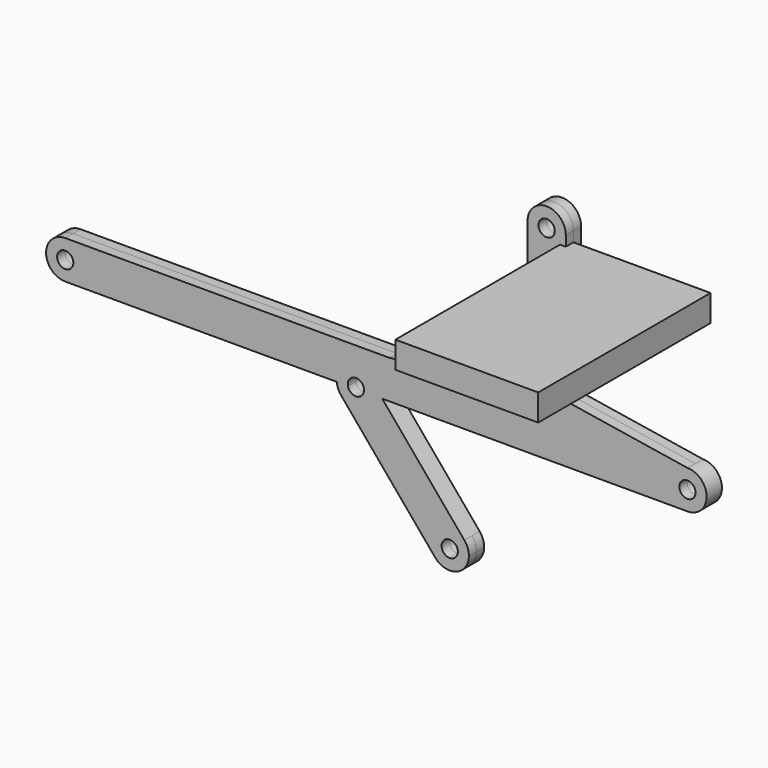
from build123d import *

# Parameters (mm, degrees)
F1_R     = 1.7
F2_DEPTH = 2
F3_W     = 29.8484290563
F3_H     = 5.5467073855
F4_DEPTH = 45


with BuildPart() as f2:
    # F1 (on Front) → F2 (new body, symmetric)
    with BuildSketch(Plane.XZ):
        with BuildLine():
            ThreePointArc((-41.5209898099, -12.0481280239), (-40.0251027901, -10.0182028071), (-38.1550220954, -11.7096733381))
            ThreePointArc((-38.1550220954, -11.7096733381), (-38.1635515644, -11.8797540328), (-38.189054381, -12.0481280239))
            Line((-38.189054381, -12.0481280239), (-35.8693667634, -12.0481280239))
            ThreePointArc((-35.8693667634, -12.0481280239), (-35.8586098715, -11.8790526048), (-35.8550220954, -11.7096733381))
            ThreePointArc((-35.8550220954, -11.7096733381), (-36.0962516123, -10.3415927648), (-36.790844323, -9.1385228994))
            ThreePointArc((-36.790844323, -9.1385228994), (-41.381040024, -8.0122053827), (-43.8406774275, -12.0481280239))
            Line((-43.8406774275, -12.0481280239), (-41.5209898099, -12.0481280239))
        make_face()
        with BuildLine():
            ThreePointArc((-38.189054381, -12.0481280239), (-39.8550220954, -13.4096733381), (-41.5209898099, -12.0481280239))
            Line((-41.5209898099, -12.0481280239), (-43.8406774275, -12.0481280239))
            ThreePointArc((-43.8406774275, -12.0481280239), (-43.5524900509, -13.2356912667), (-42.9191998679, -14.2808237769))
            ThreePointArc((-42.9191998679, -14.2808237769), (-38.6473330608, -15.5230035357), (-35.8693667634, -12.0481280239))
            Line((-35.8693667634, -12.0481280239), (-38.189054381, -12.0481280239))
        make_face()
        with BuildLine():
            Line((-100.580998737, -12.0481280239), (-43.8406774275, -12.0481280239))
            ThreePointArc((-43.8406774275, -12.0481280239), (-41.381040024, -8.0122053827), (-36.790844323, -9.1385228994))
            Line((-36.790844323, -9.1385228994), (-34.3493957361, -12.0481280239))
            Line((-34.3493957361, -12.0481280239), (29.419001263, -12.0481280239))
            ThreePointArc((29.419001263, -12.0481280239), (25.419001263, -8.0481280239), (29.419001263, -4.0481280239))
            Line((29.419001263, -4.0481280239), (-32.7925062924, -4.0481280239))
            Line((-32.7925062924, -4.0481280239), (-100.580998737, -4.0481280239))
            ThreePointArc((-100.580998737, -4.0481280239), (-97.7525716123, -5.2197008992), (-96.580998737, -8.0481280239))
            ThreePointArc((-96.580998737, -8.0481280239), (-97.7525716123, -10.8765551487), (-100.580998737, -12.0481280239))
        make_face()
        with BuildLine():
            ThreePointArc((-35.8550220954, -11.7096733381), (-35.8586098715, -11.8790526048), (-35.8693667634, -12.0481280239))
            Line((-35.8693667634, -12.0481280239), (-34.3493957361, -12.0481280239))
            Line((-34.3493957361, -12.0481280239), (-36.790844323, -9.1385228994))
            ThreePointArc((-36.790844323, -9.1385228994), (-36.0962516123, -10.3415927648), (-35.8550220954, -11.7096733381))
        make_face()
        with BuildLine():
            Line((-34.3493957361, -12.0481280239), (-35.8693667634, -12.0481280239))
            ThreePointArc((-35.8693667634, -12.0481280239), (-38.6473330608, -15.5230035357), (-42.9191998679, -14.2808237769))
            Line((-42.9191998679, -14.2808237769), (-23.3141777725, -37.645179292))
            ThreePointArc((-23.3141777725, -37.645179292), (-22.8211504387, -32.0098510808), (-17.1858222275, -32.5028784145))
            Line((-17.1858222275, -32.5028784145), (-34.3493957361, -12.0481280239))
        make_face()
        with BuildLine():
            ThreePointArc((-100.580998737, -4.0481280239), (-104.580998737, -8.0481280239), (-100.580998737, -12.0481280239))
            ThreePointArc((-100.580998737, -12.0481280239), (-97.7525716123, -10.8765551487), (-96.580998737, -8.0481280239))
            ThreePointArc((-96.580998737, -8.0481280239), (-97.7525716123, -5.2197008992), (-100.580998737, -4.0481280239))
        make_face()
        with Locations((-100.580998737, -8.0481280239)):
            Circle(F1_R, mode=Mode.SUBTRACT)
        with BuildLine():
            ThreePointArc((-17.1858222275, -32.5028784145), (-22.8211504387, -32.0098510808), (-23.3141777725, -37.645179292))
            ThreePointArc((-23.3141777725, -37.645179292), (-18.8819194267, -38.8327993364), (-16.25, -35.0740288533))
            ThreePointArc((-16.25, -35.0740288533), (-16.4912295169, -33.70594828), (-17.1858222275, -32.5028784145))
        make_face()
        with Locations((-20.25, -35.0740288533)):
            Circle(F1_R, mode=Mode.SUBTRACT)
        with BuildLine():
            ThreePointArc((29.419001263, -4.0481280239), (25.419001263, -8.0481280239), (29.419001263, -12.0481280239))
            ThreePointArc((29.419001263, -12.0481280239), (32.2474283877, -10.8765551487), (33.419001263, -8.0481280239))
            ThreePointArc((33.419001263, -8.0481280239), (32.2474283877, -5.2197008992), (29.419001263, -4.0481280239))
        make_face()
        with Locations((29.419001263, -8.0481280239)):
            Circle(F1_R, mode=Mode.SUBTRACT)
        with BuildLine():
            Line((-4, 0), (-32.7925062924, -4.0481280239))
            Line((-32.7925062924, -4.0481280239), (29.419001263, -4.0481280239))
            Line((29.419001263, -4.0481280239), (4, 0))
            ThreePointArc((4, 0), (0, -4), (-4, 0))
        make_face()
        with BuildLine():
            Line((-4, 30.5), (-4, 0))
            ThreePointArc((-4, 0), (0, 4), (4, 0))
            Line((4, 0), (4, 30.5))
            ThreePointArc((4, 30.5), (0, 26.5), (-4, 30.5))
        make_face()
        with BuildLine():
            ThreePointArc((4, 0), (0, 4), (-4, 0))
            ThreePointArc((-4, 0), (0, -4), (4, 0))
        make_face()
        Circle(F1_R, mode=Mode.SUBTRACT)
        with BuildLine():
            ThreePointArc((4, 30.5), (0, 34.5), (-4, 30.5))
            ThreePointArc((-4, 30.5), (0, 26.5), (4, 30.5))
        make_face()
        with Locations((0, 30.5)):
            Circle(F1_R, mode=Mode.SUBTRACT)
    extrude(amount=F2_DEPTH, both=True)

    # F3 (on Front) → F4 (join)
    with BuildSketch(Plane.XZ):
        with Locations((17.7185675129, 25.5892256688)):
            Rectangle(F3_W, F3_H)
    extrude(amount=F4_DEPTH)


solid = f2.part
